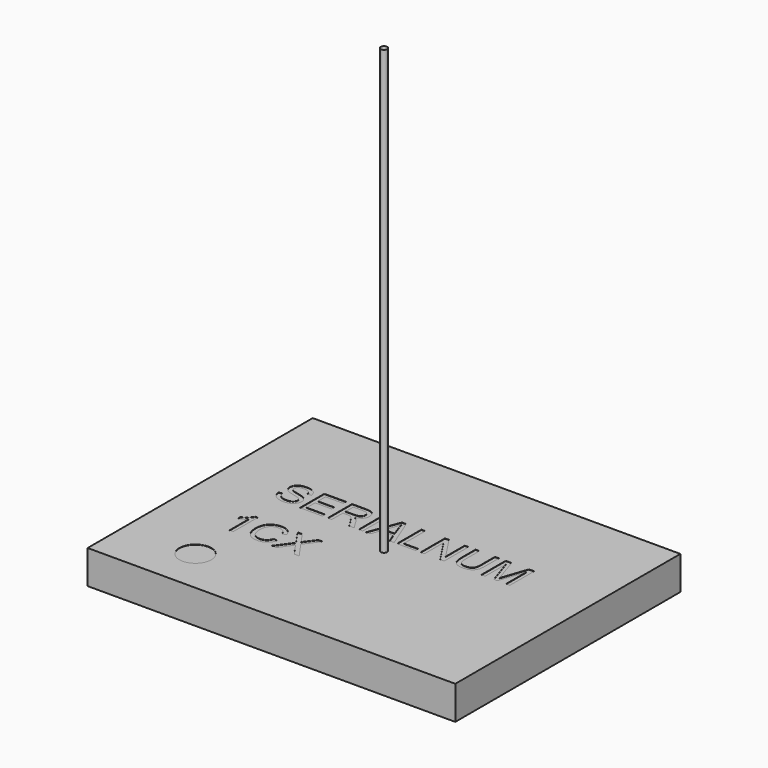
from build123d import *

# Parameters (mm, degrees)
CYLINDER_R         = 0.1
CYLINDER_DEPTH     = 15
EXTRUSION005_DEPTH = 0.01
EXTRUSION004_DEPTH = 0.01
EXTRUSION003_DEPTH = 0.01
EXTRUSION002_DEPTH = 0.01
EXTRUSION001_DEPTH = 0.01
FACE006_W          = 0.951168
FACE006_H          = 0.123566
EXTRUSION006_DEPTH = 0.01
EXTRUSION007_DEPTH = 0.01
EXTRUSION008_DEPTH = 0.01
EXTRUSION009_DEPTH = 0.01
EXTRUSION010_DEPTH = 0.01
EXTRUSION011_DEPTH = 0.01
EXTRUSION_DEPTH    = 0.01
CYLINDER001_R      = 0.5
CYLINDER001_DEPTH  = 0.01
BOX_W              = 11.5
BOX_H              = 8.8
BOX_DEPTH          = 1.05


with BuildPart() as cylinder:
    # Cylinder → Cylinder (new body)
    with BuildSketch(Plane.XY):
        Circle(CYLINDER_R)
    extrude(amount=CYLINDER_DEPTH)


with BuildPart() as extrusion005:
    # Face005 → Extrusion005 (new body)
    with BuildSketch(Plane(origin=(-1.807919, 1.024649, 1.15), x_dir=(0, 1, 0), z_dir=(0, 0, 1))):
        with BuildLine():
            Line((0.426519, 0.350042), (-0.524649, 0.350042))
            Line((-0.524649, 0.350042), (-0.524649, 0.226475))
            Line((-0.524649, 0.226475), (-0.089829, 0.226475))
            Line((-0.089829, 0.226475), (-0.089829, 0.083376))
            add(Edge.make_bspline(
                [(-0.0945, 0.014586), (-0.089829, 0.035393), (-0.089829, 0.083376)],
                knots=[0, 0, 0, 1, 1, 1], degree=2))
            add(Edge.make_bspline(
                [(-0.120402, -0.04189), (-0.101719, -0.014289), (-0.0945, 0.014586)],
                knots=[0, 0, 0, 1, 1, 1], degree=2))
            add(Edge.make_bspline(
                [(-0.18622, -0.10431), (-0.139086, -0.069491), (-0.120402, -0.04189)],
                knots=[0, 0, 0, 1, 1, 1], degree=2))
            add(Edge.make_bspline(
                [(-0.320827, -0.193907), (-0.232929, -0.139554), (-0.18622, -0.10431)],
                knots=[0, 0, 0, 1, 1, 1], degree=2))
            Line((-0.320827, -0.193907), (-0.524649, -0.317474))
            Line((-0.524649, -0.317474), (-0.524649, -0.472888))
            Line((-0.524649, -0.472888), (-0.258407, -0.310255))
            add(Edge.make_bspline(
                [(-0.12847, -0.207919), (-0.180275, -0.261847), (-0.258407, -0.310255)],
                knots=[0, 0, 0, 1, 1, 1], degree=2))
            add(Edge.make_bspline(
                [(-0.079638, -0.133185), (-0.104266, -0.182442), (-0.12847, -0.207919)],
                knots=[0, 0, 0, 1, 1, 1], degree=2))
            add(Edge.make_bspline(
                [(0.006562, -0.331911), (-0.061379, -0.267792), (-0.079638, -0.133185)],
                knots=[0, 0, 0, 1, 1, 1], degree=2))
            add(Edge.make_bspline(
                [(0.173016, -0.396454), (0.074502, -0.396454), (0.006562, -0.331911)],
                knots=[0, 0, 0, 1, 1, 1], degree=2))
            add(Edge.make_bspline(
                [(0.313143, -0.357389), (0.249874, -0.396454), (0.173016, -0.396454)],
                knots=[0, 0, 0, 1, 1, 1], degree=2))
            add(Edge.make_bspline(
                [(0.401466, -0.253779), (0.376413, -0.318747), (0.313143, -0.357389)],
                knots=[0, 0, 0, 1, 1, 1], degree=2))
            add(Edge.make_bspline(
                [(0.426519, -0.06397), (0.426519, -0.188811), (0.401466, -0.253779)],
                knots=[0, 0, 0, 1, 1, 1], degree=2))
            Line((0.426519, -0.06397), (0.426519, 0.350042))
        make_face()
        with BuildLine():
            Line((0.018876, -0.038917), (0.018876, 0.226475))
            Line((0.018876, 0.226475), (0.317814, 0.226475))
            Line((0.317814, 0.226475), (0.317814, -0.069066))
            add(Edge.make_bspline(
                [(0.276201, -0.220658), (0.317814, -0.172675), (0.317814, -0.069066)],
                knots=[0, 0, 0, 1, 1, 1], degree=2))
            add(Edge.make_bspline(
                [(0.171317, -0.269066), (0.235012, -0.269066), (0.276201, -0.220658)],
                knots=[0, 0, 0, 1, 1, 1], degree=2))
            add(Edge.make_bspline(
                [(0.089789, -0.244013), (0.127156, -0.269066), (0.171317, -0.269066)],
                knots=[0, 0, 0, 1, 1, 1], degree=2))
            add(Edge.make_bspline(
                [(0.035861, -0.171401), (0.052846, -0.219384), (0.089789, -0.244013)],
                knots=[0, 0, 0, 1, 1, 1], degree=2))
            add(Edge.make_bspline(
                [(0.018876, -0.038917), (0.018876, -0.123843), (0.035861, -0.171401)],
                knots=[0, 0, 0, 1, 1, 1], degree=2))
        make_face(mode=Mode.SUBTRACT)
    extrude(amount=-EXTRUSION005_DEPTH)


with BuildPart() as extrusion004:
    # Face004 → Extrusion004 (new body)
    with BuildSketch(Plane(origin=(-2.762888, 0.974813, 1.15), x_dir=(0, 1, 0), z_dir=(0, 0, 1))):
        Polygon((0.476355, 0.264288), (-0.474813, 0.264288), (-0.474813, -0.432527), (-0.366108, -0.432527), (-0.366108, 0.140722), (-0.039993, 0.140722), (-0.039993, -0.376051), (0.068712, -0.376051), (0.068712, 0.140722), (0.36765, 0.140722), (0.36765, -0.410871), (0.476355, -0.410871), align=None)
    extrude(amount=-EXTRUSION004_DEPTH)


with BuildPart() as extrusion003:
    # Face003 → Extrusion003 (new body)
    with BuildSketch(Plane(origin=(-3.56468, 0.968254, 1.15), x_dir=(0, 1, 0), z_dir=(0, 0, 1))):
        with BuildLine():
            Line((-0.142139, 0.259948), (-0.15233, 0.376721))
            add(Edge.make_bspline(
                [(-0.320059, 0.325341), (-0.245749, 0.374173), (-0.15233, 0.376721)],
                knots=[0, 0, 0, 1, 1, 1], degree=2))
            add(Edge.make_bspline(
                [(-0.431311, 0.191159), (-0.394369, 0.276509), (-0.320059, 0.325341)],
                knots=[0, 0, 0, 1, 1, 1], degree=2))
            add(Edge.make_bspline(
                [(-0.468254, -0.02158), (-0.468254, 0.105384), (-0.431311, 0.191159)],
                knots=[0, 0, 0, 1, 1, 1], degree=2))
            add(Edge.make_bspline(
                [(-0.432161, -0.201198), (-0.468254, -0.121368), (-0.468254, -0.02158)],
                knots=[0, 0, 0, 1, 1, 1], degree=2))
            add(Edge.make_bspline(
                [(-0.331524, -0.323916), (-0.396067, -0.281453), (-0.432161, -0.201198)],
                knots=[0, 0, 0, 1, 1, 1], degree=2))
            add(Edge.make_bspline(
                [(-0.193095, -0.366803), (-0.266556, -0.366803), (-0.331524, -0.323916)],
                knots=[0, 0, 0, 1, 1, 1], degree=2))
            add(Edge.make_bspline(
                [(-0.062734, -0.327737), (-0.119209, -0.366803), (-0.193095, -0.366803)],
                knots=[0, 0, 0, 1, 1, 1], degree=2))
            add(Edge.make_bspline(
                [(0.031109, -0.207568), (-0.005834, -0.289096), (-0.062734, -0.327737)],
                knots=[0, 0, 0, 1, 1, 1], degree=2))
            add(Edge.make_bspline(
                [(0.089283, -0.000774), (0.056162, -0.151517), (0.031109, -0.207568)],
                knots=[0, 0, 0, 1, 1, 1], degree=2))
            add(Edge.make_bspline(
                [(0.155101, 0.185638), (0.122829, 0.14997), (0.089283, -0.000774)],
                knots=[0, 0, 0, 1, 1, 1], degree=2))
            add(Edge.make_bspline(
                [(0.236205, 0.221732), (0.186948, 0.221732), (0.155101, 0.185638)],
                knots=[0, 0, 0, 1, 1, 1], degree=2))
            add(Edge.make_bspline(
                [(0.333869, 0.170776), (0.293529, 0.221732), (0.236205, 0.221732)],
                knots=[0, 0, 0, 1, 1, 1], degree=2))
            add(Edge.make_bspline(
                [(0.374209, 0.007294), (0.374209, 0.119396), (0.333869, 0.170776)],
                knots=[0, 0, 0, 1, 1, 1], degree=2))
            add(Edge.make_bspline(
                [(0.33302, -0.155338), (0.374209, -0.100561), (0.374209, 0.007294)],
                knots=[0, 0, 0, 1, 1, 1], degree=2))
            add(Edge.make_bspline(
                [(0.211151, -0.220306), (0.291831, -0.21054), (0.33302, -0.155338)],
                knots=[0, 0, 0, 1, 1, 1], degree=2))
            Line((0.211151, -0.220306), (0.219644, -0.338778))
            add(Edge.make_bspline(
                [(0.358073, -0.292493), (0.296926, -0.335381), (0.219644, -0.338778)],
                knots=[0, 0, 0, 1, 1, 1], degree=2))
            add(Edge.make_bspline(
                [(0.451067, -0.170625), (0.419644, -0.25003), (0.358073, -0.292493)],
                knots=[0, 0, 0, 1, 1, 1], degree=2))
            add(Edge.make_bspline(
                [(0.482914, 0.01239), (0.482914, -0.091644), (0.451067, -0.170625)],
                knots=[0, 0, 0, 1, 1, 1], degree=2))
            add(Edge.make_bspline(
                [(0.451491, 0.18394), (0.482914, 0.106657), (0.482914, 0.01239)],
                knots=[0, 0, 0, 1, 1, 1], degree=2))
            add(Edge.make_bspline(
                [(0.359347, 0.301137), (0.420069, 0.260798), (0.451491, 0.18394)],
                knots=[0, 0, 0, 1, 1, 1], degree=2))
            add(Edge.make_bspline(
                [(0.229411, 0.341052), (0.29905, 0.341052), (0.359347, 0.301137)],
                knots=[0, 0, 0, 1, 1, 1], degree=2))
            add(Edge.make_bspline(
                [(0.114336, 0.308356), (0.165716, 0.341052), (0.229411, 0.341052)],
                knots=[0, 0, 0, 1, 1, 1], degree=2))
            add(Edge.make_bspline(
                [(0.028986, 0.208568), (0.063381, 0.275235), (0.114336, 0.308356)],
                knots=[0, 0, 0, 1, 1, 1], degree=2))
            add(Edge.make_bspline(
                [(-0.028339, 0.028101), (0.002234, 0.156764), (0.028986, 0.208568)],
                knots=[0, 0, 0, 1, 1, 1], degree=2))
            add(Edge.make_bspline(
                [(-0.07335, -0.137929), (-0.058912, -0.100561), (-0.028339, 0.028101)],
                knots=[0, 0, 0, 1, 1, 1], degree=2))
            add(Edge.make_bspline(
                [(-0.127702, -0.222005), (-0.09543, -0.196527), (-0.07335, -0.137929)],
                knots=[0, 0, 0, 1, 1, 1], degree=2))
            add(Edge.make_bspline(
                [(-0.203286, -0.247483), (-0.159974, -0.247483), (-0.127702, -0.222005)],
                knots=[0, 0, 0, 1, 1, 1], degree=2))
            add(Edge.make_bspline(
                [(-0.281842, -0.221156), (-0.245749, -0.247483), (-0.203286, -0.247483)],
                knots=[0, 0, 0, 1, 1, 1], degree=2))
            add(Edge.make_bspline(
                [(-0.338742, -0.140476), (-0.317936, -0.194829), (-0.281842, -0.221156)],
                knots=[0, 0, 0, 1, 1, 1], degree=2))
            add(Edge.make_bspline(
                [(-0.359549, -0.015636), (-0.359549, -0.086548), (-0.338742, -0.140476)],
                knots=[0, 0, 0, 1, 1, 1], degree=2))
            add(Edge.make_bspline(
                [(-0.331524, 0.127464), (-0.359549, 0.06377), (-0.359549, -0.015636)],
                knots=[0, 0, 0, 1, 1, 1], degree=2))
            add(Edge.make_bspline(
                [(-0.258488, 0.221732), (-0.303498, 0.191159), (-0.331524, 0.127464)],
                knots=[0, 0, 0, 1, 1, 1], degree=2))
            add(Edge.make_bspline(
                [(-0.142139, 0.259948), (-0.213052, 0.25188), (-0.258488, 0.221732)],
                knots=[0, 0, 0, 1, 1, 1], degree=2))
        make_face()
    extrude(amount=-EXTRUSION003_DEPTH)


with BuildPart() as extrusion002:
    # Face002 → Extrusion002 (new body)
    with BuildSketch(Plane(origin=(-1.877766, -1.031389, 1.15), x_dir=(0, 1, 0), z_dir=(0, 0, 1))):
        with BuildLine():
            Line((0.026931, 0.07043), (-0.468611, 0.431364))
            Line((-0.468611, 0.431364), (-0.468611, 0.283169))
            Line((-0.468611, 0.283169), (-0.142921, 0.048774))
            add(Edge.make_bspline(
                [(-0.072857, 0.004188), (-0.123812, 0.035186), (-0.142921, 0.048774)],
                knots=[0, 0, 0, 1, 1, 1], degree=2))
            add(Edge.make_bspline(
                [(-0.135277, -0.036577), (-0.106827, -0.017044), (-0.072857, 0.004188)],
                knots=[0, 0, 0, 1, 1, 1], degree=2))
            Line((-0.135277, -0.036577), (-0.468611, -0.271821))
            Line((-0.468611, -0.271821), (-0.468611, -0.424687))
            Line((-0.468611, -0.424687), (0.034149, -0.070972))
            Line((0.034149, -0.070972), (0.482557, -0.399209))
            Line((0.482557, -0.399209), (0.482557, -0.264602))
            Line((0.482557, -0.264602), (0.234999, -0.076916))
            add(Edge.make_bspline(
                [(0.128417, -0.003031), (0.179372, -0.034029), (0.234999, -0.076916)],
                knots=[0, 0, 0, 1, 1, 1], degree=2))
            add(Edge.make_bspline(
                [(0.243067, 0.072128), (0.168757, 0.019474), (0.128417, -0.003031)],
                knots=[0, 0, 0, 1, 1, 1], degree=2))
            Line((0.243067, 0.072128), (0.482557, 0.241555))
            Line((0.482557, 0.241555), (0.482557, 0.388901))
            Line((0.482557, 0.388901), (0.026931, 0.07043))
        make_face()
    extrude(amount=-EXTRUSION002_DEPTH)


with BuildPart() as extrusion001:
    # Face001 → Extrusion001 (new body)
    with BuildSketch(Plane(origin=(-2.83732, -1.030461, 1.15), x_dir=(0, 1, 0), z_dir=(0, 0, 1))):
        with BuildLine():
            Line((-0.174422, -0.461524), (-0.143424, -0.337957))
            add(Edge.make_bspline(
                [(-0.306057, -0.240293), (-0.25128, -0.31248), (-0.143424, -0.337957)],
                knots=[0, 0, 0, 1, 1, 1], degree=2))
            add(Edge.make_bspline(
                [(-0.360834, -0.064921), (-0.360834, -0.168531), (-0.306057, -0.240293)],
                knots=[0, 0, 0, 1, 1, 1], degree=2))
            add(Edge.make_bspline(
                [(-0.318371, 0.09389), (-0.360834, 0.020429), (-0.360834, -0.064921)],
                knots=[0, 0, 0, 1, 1, 1], degree=2))
            add(Edge.make_bspline(
                [(-0.188859, 0.201745), (-0.275483, 0.166926), (-0.318371, 0.09389)],
                knots=[0, 0, 0, 1, 1, 1], degree=2))
            add(Edge.make_bspline(
                [(0.013689, 0.236565), (-0.102235, 0.236565), (-0.188859, 0.201745)],
                knots=[0, 0, 0, 1, 1, 1], degree=2))
            add(Edge.make_bspline(
                [(0.187786, 0.207266), (0.103285, 0.236565), (0.013689, 0.236565)],
                knots=[0, 0, 0, 1, 1, 1], degree=2))
            add(Edge.make_bspline(
                [(0.322818, 0.105779), (0.272712, 0.177966), (0.187786, 0.207266)],
                knots=[0, 0, 0, 1, 1, 1], degree=2))
            add(Edge.make_bspline(
                [(0.372924, -0.074263), (0.372924, 0.033168), (0.322818, 0.105779)],
                knots=[0, 0, 0, 1, 1, 1], degree=2))
            add(Edge.make_bspline(
                [(0.327489, -0.229677), (0.372924, -0.168106), (0.372924, -0.074263)],
                knots=[0, 0, 0, 1, 1, 1], degree=2))
            add(Edge.make_bspline(
                [(0.182691, -0.323945), (0.282054, -0.291673), (0.327489, -0.229677)],
                knots=[0, 0, 0, 1, 1, 1], degree=2))
            Line((0.182691, -0.323945), (0.211141, -0.445813))
            add(Edge.make_bspline(
                [(0.410716, -0.31248), (0.339803, -0.408021), (0.211141, -0.445813)],
                knots=[0, 0, 0, 1, 1, 1], degree=2))
            add(Edge.make_bspline(
                [(0.481629, -0.076811), (0.481629, -0.216938), (0.410716, -0.31248)],
                knots=[0, 0, 0, 1, 1, 1], degree=2))
            add(Edge.make_bspline(
                [(0.426003, 0.149516), (0.481629, 0.046756), (0.481629, -0.076811)],
                knots=[0, 0, 0, 1, 1, 1], degree=2))
            add(Edge.make_bspline(
                [(0.26337, 0.308327), (0.370376, 0.252276), (0.426003, 0.149516)],
                knots=[0, 0, 0, 1, 1, 1], degree=2))
            add(Edge.make_bspline(
                [(0.012839, 0.363953), (0.156788, 0.363953), (0.26337, 0.308327)],
                knots=[0, 0, 0, 1, 1, 1], degree=2))
            add(Edge.make_bspline(
                [(-0.23387, 0.314697), (-0.118796, 0.363953), (0.012839, 0.363953)],
                knots=[0, 0, 0, 1, 1, 1], degree=2))
            add(Edge.make_bspline(
                [(-0.409241, 0.170748), (-0.34852, 0.265015), (-0.23387, 0.314697)],
                knots=[0, 0, 0, 1, 1, 1], degree=2))
            add(Edge.make_bspline(
                [(-0.469539, -0.075112), (-0.469539, 0.076055), (-0.409241, 0.170748)],
                knots=[0, 0, 0, 1, 1, 1], degree=2))
            add(Edge.make_bspline(
                [(-0.393955, -0.321821), (-0.469539, -0.22076), (-0.469539, -0.075112)],
                knots=[0, 0, 0, 1, 1, 1], degree=2))
            add(Edge.make_bspline(
                [(-0.174422, -0.461524), (-0.318371, -0.422883), (-0.393955, -0.321821)],
                knots=[0, 0, 0, 1, 1, 1], degree=2))
        make_face()
    extrude(amount=-EXTRUSION001_DEPTH)


with BuildPart() as extrusion006:
    # Face006 → Extrusion006 (new body)
    with BuildSketch(Plane(origin=(-1.125902, 0.975584, 1.15), x_dir=(0, 1, 0), z_dir=(0, 0, 1))):
        Rectangle(FACE006_W, FACE006_H)
    extrude(amount=-EXTRUSION006_DEPTH)


with BuildPart() as extrusion007:
    # Face007 → Extrusion007 (new body)
    with BuildSketch(Plane(origin=(-0.523427, 0.931351, 1.15), x_dir=(0, 1, 0), z_dir=(0, 0, 1))):
        Polygon((0.519817, 0.076149), (-0.431351, 0.43496), (-0.431351, 0.303325), (-0.152795, 0.20099), (-0.152795, -0.189669), (-0.431351, -0.298374), (-0.431351, -0.43935), (0.519817, -0.057185), align=None)
        with BuildLine():
            Line((-0.050884, -0.151452), (-0.050884, 0.165321))
            Line((-0.050884, 0.165321), (0.235316, 0.062561))
            add(Edge.make_bspline(
                [(0.421728, 0.012455), (0.327885, 0.030289), (0.235316, 0.062561)],
                knots=[0, 0, 0, 1, 1, 1], degree=2))
            add(Edge.make_bspline(
                [(0.21918, -0.053788), (0.342322, -0.009202), (0.421728, 0.012455)],
                knots=[0, 0, 0, 1, 1, 1], degree=2))
            Line((0.21918, -0.053788), (-0.050884, -0.151452))
        make_face(mode=Mode.SUBTRACT)
    extrude(amount=-EXTRUSION007_DEPTH)


with BuildPart() as extrusion008:
    # Face008 → Extrusion008 (new body)
    with BuildSketch(Plane(origin=(0.157752, 0.849885, 1.15), x_dir=(0, 1, 0), z_dir=(0, 0, 1))):
        Polygon((0.601283, 0.148835), (-0.349885, 0.148835), (-0.349885, -0.434604), (-0.24118, -0.434604), (-0.24118, 0.025268), (0.601283, 0.025268), align=None)
    extrude(amount=-EXTRUSION008_DEPTH)


with BuildPart() as extrusion009:
    # Face009 → Extrusion009 (new body)
    with BuildSketch(Plane(origin=(1.114464, 0.975577, 1.15), x_dir=(0, 1, 0), z_dir=(0, 0, 1))):
        Polygon((0.475591, 0.367967), (-0.475577, 0.367967), (-0.475577, 0.249496), (0.271769, 0.249496), (-0.475577, -0.24095), (-0.475577, -0.367914), (0.475591, -0.367914), (0.475591, -0.249442), (-0.271331, -0.249442), (0.475591, 0.241003), align=None)
    extrude(amount=-EXTRUSION009_DEPTH)


with BuildPart() as extrusion010:
    # Face010 → Extrusion010 (new body)
    with BuildSketch(Plane(origin=(2.067811, 0.936273, 1.15), x_dir=(0, 1, 0), z_dir=(0, 0, 1))):
        with BuildLine():
            Line((0.514894, -0.367433), (0.514894, -0.243866))
            Line((0.514894, -0.243866), (-0.026507, -0.243866))
            add(Edge.make_bspline(
                [(-0.265573, -0.185692), (-0.203577, -0.243866), (-0.026507, -0.243866)],
                knots=[0, 0, 0, 1, 1, 1], degree=2))
            add(Edge.make_bspline(
                [(-0.327569, 0.008363), (-0.327569, -0.127943), (-0.265573, -0.185692)],
                knots=[0, 0, 0, 1, 1, 1], degree=2))
            add(Edge.make_bspline(
                [(-0.296146, 0.14297), (-0.327569, 0.087769), (-0.327569, 0.008363)],
                knots=[0, 0, 0, 1, 1, 1], degree=2))
            add(Edge.make_bspline(
                [(-0.206974, 0.220677), (-0.264724, 0.198172), (-0.296146, 0.14297)],
                knots=[0, 0, 0, 1, 1, 1], degree=2))
            add(Edge.make_bspline(
                [(-0.026507, 0.243183), (-0.1488, 0.243183), (-0.206974, 0.220677)],
                knots=[0, 0, 0, 1, 1, 1], degree=2))
            Line((-0.026507, 0.243183), (0.514894, 0.243183))
            Line((0.514894, 0.243183), (0.514894, 0.366749))
            Line((0.514894, 0.366749), (-0.025233, 0.366749))
            add(Edge.make_bspline(
                [(-0.260053, 0.331081), (-0.174278, 0.366749), (-0.025233, 0.366749)],
                knots=[0, 0, 0, 1, 1, 1], degree=2))
            add(Edge.make_bspline(
                [(-0.391263, 0.212185), (-0.345828, 0.295412), (-0.260053, 0.331081)],
                knots=[0, 0, 0, 1, 1, 1], degree=2))
            add(Edge.make_bspline(
                [(-0.436273, -0.002677), (-0.436273, 0.128533), (-0.391263, 0.212185)],
                knots=[0, 0, 0, 1, 1, 1], degree=2))
            add(Edge.make_bspline(
                [(-0.384469, -0.220512), (-0.436273, -0.137709), (-0.436273, -0.002677)],
                knots=[0, 0, 0, 1, 1, 1], degree=2))
            add(Edge.make_bspline(
                [(-0.249437, -0.335586), (-0.332239, -0.303739), (-0.384469, -0.220512)],
                knots=[0, 0, 0, 1, 1, 1], degree=2))
            add(Edge.make_bspline(
                [(-0.025233, -0.367433), (-0.166634, -0.367433), (-0.249437, -0.335586)],
                knots=[0, 0, 0, 1, 1, 1], degree=2))
            Line((-0.025233, -0.367433), (0.514894, -0.367433))
        make_face()
    extrude(amount=-EXTRUSION010_DEPTH)


with BuildPart() as extrusion011:
    # Face011 → Extrusion011 (new body)
    with BuildSketch(Plane(origin=(3.088215, 0.976434, 1.15), x_dir=(0, 1, 0), z_dir=(0, 0, 1))):
        with BuildLine():
            Line((0.474734, 0.44193), (-0.476434, 0.44193))
            Line((-0.476434, 0.44193), (-0.476434, 0.322609))
            Line((-0.476434, 0.322609), (0.335881, 0.322609))
            Line((0.335881, 0.322609), (-0.476434, 0.052546))
            Line((-0.476434, 0.052546), (-0.476434, -0.058707))
            Line((-0.476434, -0.058707), (0.322717, -0.330044))
            Line((0.322717, -0.330044), (-0.476434, -0.330044))
            Line((-0.476434, -0.330044), (-0.476434, -0.449365))
            Line((-0.476434, -0.449365), (0.474734, -0.449365))
            Line((0.474734, -0.449365), (0.474734, -0.282911))
            Line((0.474734, -0.282911), (-0.18896, -0.059556))
            add(Edge.make_bspline(
                [(-0.341826, -0.009875), (-0.289597, -0.025586), (-0.18896, -0.059556)],
                knots=[0, 0, 0, 1, 1, 1], degree=2))
            add(Edge.make_bspline(
                [(-0.200425, 0.034711), (-0.295117, 0.004138), (-0.341826, -0.009875)],
                knots=[0, 0, 0, 1, 1, 1], degree=2))
            Line((-0.200425, 0.034711), (0.474734, 0.255943))
            Line((0.474734, 0.255943), (0.474734, 0.44193))
        make_face()
    extrude(amount=-EXTRUSION011_DEPTH)


with BuildPart() as extrusion:
    # Face → Extrusion (new body)
    with BuildSketch(Plane(origin=(-3.605297, -0.977213, 1.15), x_dir=(0, 1, 0), z_dir=(0, 0, 1))):
        with BuildLine():
            Line((-0.522787, 0.023153), (-0.522787, -0.091497))
            Line((-0.522787, -0.091497), (0.42838, -0.091497))
            Line((0.42838, -0.091497), (0.42838, -0.017611))
            add(Edge.make_bspline(
                [(0.29802, 0.084724), (0.365111, 0.012537), (0.42838, -0.017611)],
                knots=[0, 0, 0, 1, 1, 1], degree=2))
            add(Edge.make_bspline(
                [(0.183794, 0.252452), (0.230928, 0.156486), (0.29802, 0.084724)],
                knots=[0, 0, 0, 1, 1, 1], degree=2))
            Line((0.183794, 0.252452), (0.07509, 0.252452))
            add(Edge.make_bspline(
                [(0.136236, 0.131858), (0.095472, 0.198949), (0.07509, 0.252452)],
                knots=[0, 0, 0, 1, 1, 1], degree=2))
            add(Edge.make_bspline(
                [(0.218189, 0.023153), (0.177425, 0.064767), (0.136236, 0.131858)],
                knots=[0, 0, 0, 1, 1, 1], degree=2))
            Line((0.218189, 0.023153), (-0.522787, 0.023153))
        make_face()
    extrude(amount=-EXTRUSION_DEPTH)


with BuildPart() as cylinder001:
    # Cylinder001 → Cylinder001 (new body)
    with BuildSketch(Plane(origin=(-3.5, -3, 1.14), x_dir=(1, 0, 0), z_dir=(0, 0, 1))):
        Circle(CYLINDER001_R)
    extrude(amount=CYLINDER001_DEPTH)


with BuildPart() as cut012:
    # Box → Box (new body)
    with BuildSketch(Plane(origin=(-5.75, -4.4, 0.1), x_dir=(1, 0, 0), z_dir=(0, 0, 1))):
        with Locations((5.75, 4.4)):
            Rectangle(BOX_W, BOX_H)
    extrude(amount=BOX_DEPTH)

    # Cut: cut Cylinder001
    add(cylinder001.part, mode=Mode.SUBTRACT)

    # Cut001: cut Extrusion
    add(extrusion.part, mode=Mode.SUBTRACT)

    # Cut002: cut Extrusion011
    add(extrusion011.part, mode=Mode.SUBTRACT)

    # Cut003: cut Extrusion010
    add(extrusion010.part, mode=Mode.SUBTRACT)

    # Cut004: cut Extrusion009
    add(extrusion009.part, mode=Mode.SUBTRACT)

    # Cut005: cut Extrusion008
    add(extrusion008.part, mode=Mode.SUBTRACT)

    # Cut006: cut Extrusion007
    add(extrusion007.part, mode=Mode.SUBTRACT)

    # Cut007: cut Extrusion006
    add(extrusion006.part, mode=Mode.SUBTRACT)

    # Cut008: cut Extrusion001
    add(extrusion001.part, mode=Mode.SUBTRACT)

    # Cut009: cut Extrusion002
    add(extrusion002.part, mode=Mode.SUBTRACT)

    # Cut010: cut Extrusion003
    add(extrusion003.part, mode=Mode.SUBTRACT)

    # Cut011: cut Extrusion004
    add(extrusion004.part, mode=Mode.SUBTRACT)

    # Cut012: cut Extrusion005
    add(extrusion005.part, mode=Mode.SUBTRACT)


solid = Compound([cylinder.part, cut012.part])
